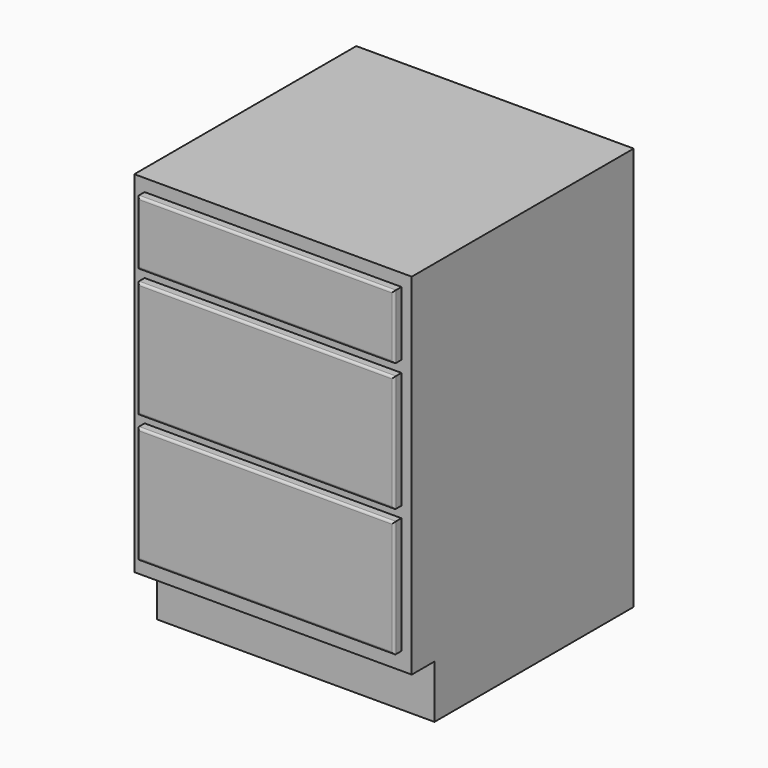
from build123d import *

# Parameters (mm, degrees)
F0_W     = 605
F0_H     = 880
F1_DEPTH = 605
F2_W     = 605
F2_H     = 116
F3_DEPTH = 62.0014
F4_W     = 560
F4_H     = 140
F5_DEPTH = 20
F6_W     = 560
F6_H     = 255
F7_DEPTH = 20
F8_W     = 560
F8_H     = 255
F9_DEPTH = 20
F10_R    = 5.08


with BuildPart() as f1:
    # F0 (on Front) → F1 (new body)
    with BuildSketch(Plane.XZ):
        Rectangle(F0_W, F0_H)
    extrude(amount=F1_DEPTH)

    # F2 (on face) → F3 (cut)
    with BuildSketch(Plane.XZ.offset(605)):
        with Locations((0, -382)):
            Rectangle(F2_W, F2_H)
    extrude(amount=-F3_DEPTH, mode=Mode.SUBTRACT)

    # F4 (on face) → F5 (join)
    with BuildSketch(Plane.XZ.offset(605)):
        with Locations((0, 343)):
            Rectangle(F4_W, F4_H)
    extrude(amount=F5_DEPTH)

    # F6 (on face) → F7 (join)
    with BuildSketch(Plane.XZ.offset(605)):
        with Locations((0, 120.5)):
            Rectangle(F6_W, F6_H)
    extrude(amount=F7_DEPTH)

    # F8 (on face) → F9 (join)
    with BuildSketch(Plane.XZ.offset(605)):
        with Locations((0, -158.5)):
            Rectangle(F8_W, F8_H)
    extrude(amount=F9_DEPTH)

    # F10
    f10_edges = [f1.edges().sort_by_distance(p)[0] for p in [
        (0, -625, 413),
        (-280, -625, 343),
        (0, -625, 273),
        (280, -625, 343),
        (0, -625, 248),
        (280, -625, 120.5),
        (-280, -625, 120.5),
        (0, -625, -7),
        (0, -625, -31),
        (-280, -625, -158.5),
        (0, -625, -286),
        (280, -625, -158.5),
    ]]
    fillet(f10_edges, radius=F10_R)


solid = f1.part
